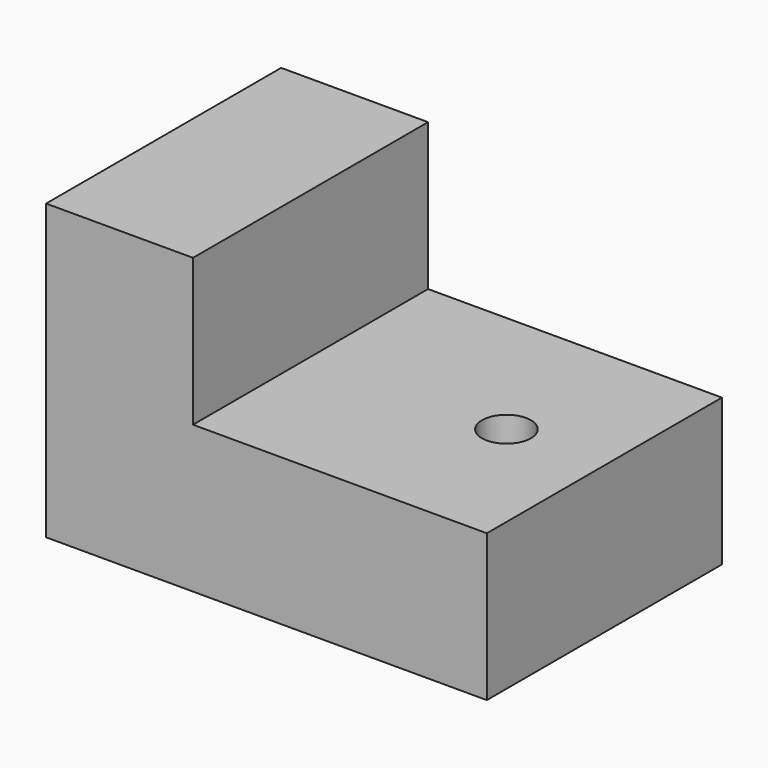
from build123d import *

# Parameters (mm, degrees)
F1_DEPTH = 6
F2_R     = 0.5
F3_DEPTH = 3.001


with BuildPart() as f1:
    # F0 (on Front) → F1 (new body)
    with BuildSketch(Plane.XZ):
        Polygon((3, 0), (0, 0), (0, -6), (9, -6), (9, -3), (3, -3), align=None)
    extrude(amount=F1_DEPTH)

    # F2 (on face) → F3 (cut, through all)
    with BuildSketch(Plane.XY.offset(-3)):
        with Locations((7, -3)):
            Circle(F2_R)
    extrude(amount=-F3_DEPTH, mode=Mode.SUBTRACT)


solid = f1.part
